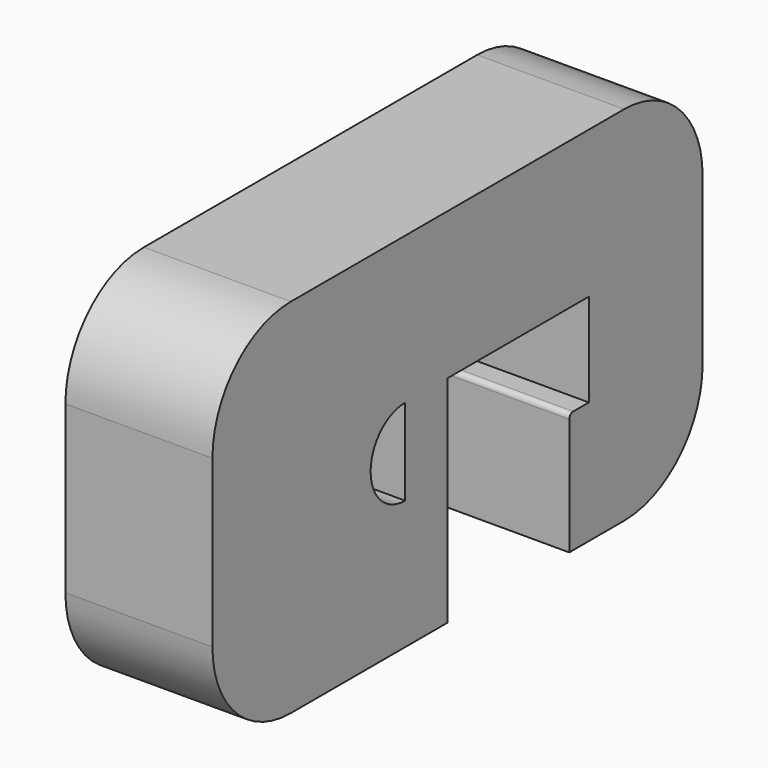
from build123d import *

# Parameters (mm, degrees)
F0_W     = 1.085638
F0_H     = 1.76
F1_DEPTH = 3


with BuildPart() as f1:
    # F0 (on Right) → F1 (new body)
    with BuildSketch(Plane.YZ):
        with BuildLine():
            ThreePointArc((-2, 0), (-0.585786, 0.585786), (0, 2))
            Line((0, 2), (0, 5.391211))
            ThreePointArc((0, 5.391211), (-0.585786, 6.805424), (-2, 7.391211))
            Line((-2, 7.391211), (-10.5, 7.391211))
            ThreePointArc((-10.5, 7.391211), (-11.914214, 6.805424), (-12.5, 5.391211))
            Line((-12.5, 5.391211), (-12.5, 2))
            ThreePointArc((-12.5, 2), (-11.914214, 0.585786), (-10.5, 0))
            Line((-10.5, 0), (-6.500521, 0))
            Line((-6.500521, 0), (-6.500521, 2.631211))
            Line((-6.500521, 2.631211), (-7.586159, 2.631211))
            ThreePointArc((-7.586159, 2.631211), (-8.466159, 3.511211), (-7.586159, 4.391211))
            Line((-7.586159, 4.391211), (-6.500521, 4.391211))
            Line((-6.500521, 4.391211), (-2.900521, 4.391211))
            Line((-2.900521, 4.391211), (-2.900521, 2.491211))
            Line((-2.900521, 2.491211), (-3.300521, 2.491211))
            ThreePointArc((-3.300521, 2.491211), (-3.371232, 2.461921), (-3.400521, 2.391211))
            Line((-3.400521, 2.391211), (-3.400521, 0))
            Line((-3.400521, 0), (-2.900521, 0))
            Line((-2.900521, 0), (-2, 0))
        make_face()
        with Locations((-7.04334, 3.511211)):
            Rectangle(F0_W, F0_H)
    extrude(amount=F1_DEPTH)


solid = f1.part
